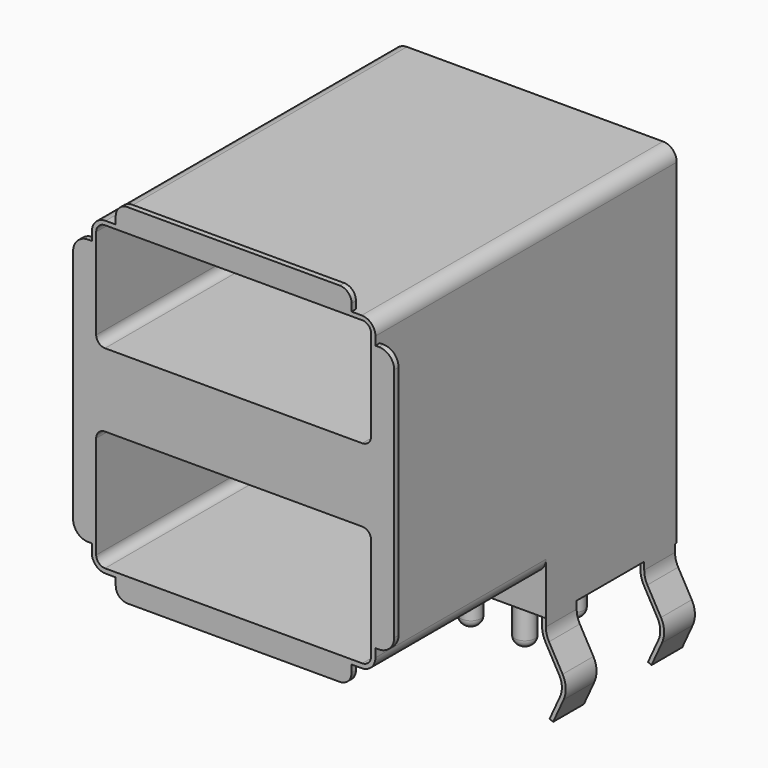
from build123d import *

# Parameters (mm, degrees)
F0_W      = 13.1
F0_H      = 17.4
F1_DEPTH  = 14.35
F2_W      = 13.1
F2_H      = 7.543982
F3_DEPTH  = 1.77
F7_DEPTH  = 0.889
F9_DEPTH  = 0.889
F10_R     = 0.46
F11_DEPTH = 3.1
F12_R     = 0.381
F14_DEPTH = 0.254
F16_DEPTH = 0.254
F17_R     = 0.635
F19_DEPTH = 12.573


with BuildPart() as f1:
    # F0 (on Top) → F1 (new body)
    with BuildSketch(Plane.XY):
        Rectangle(F0_W, F0_H)
    extrude(amount=F1_DEPTH)

    # F2 (on face) → F3 (join)
    with BuildSketch(Plane(origin=(0, 0, 0), x_dir=(1, 0, 0), z_dir=(0, 0, -1))):
        with Locations((0, -4.928009)):
            Rectangle(F2_W, F2_H)
    extrude(amount=F3_DEPTH)

    # F6 (on offset) → F7 (join, symmetric)
    with BuildSketch(Plane.XZ.offset(-2.032)):
        with BuildLine():
            Line((6.55, -2.116357), (6.55, -1.77))
            Line((6.55, -1.77), (6.3722, -1.77))
            Line((6.3722, -1.77), (6.3722, -2.116357))
            ThreePointArc((6.3722, -2.116357), (6.414983, -2.448515), (6.540539, -2.75899))
            Line((6.540539, -2.75899), (7.168328, -3.875061))
            ThreePointArc((7.168328, -3.875061), (7.290154, -4.303191), (7.204733, -4.740044))
            Line((7.204733, -4.740044), (6.722593, -5.796161))
            Line((6.722593, -5.796161), (6.884336, -5.87))
            Line((6.884336, -5.87), (7.366476, -4.813883))
            ThreePointArc((7.366476, -4.813883), (7.467797, -4.295715), (7.323294, -3.787892))
            Line((7.323294, -3.787892), (6.695505, -2.671822))
            ThreePointArc((6.695505, -2.671822), (6.58698, -2.40346), (6.55, -2.116357))
        make_face()
        with BuildLine():
            Line((-6.3722, -2.116357), (-6.3722, -1.77))
            Line((-6.3722, -1.77), (-6.55, -1.77))
            Line((-6.55, -1.77), (-6.55, -2.116357))
            ThreePointArc((-6.55, -2.116357), (-6.58698, -2.40346), (-6.695505, -2.671822))
            Line((-6.695505, -2.671822), (-7.323294, -3.787892))
            ThreePointArc((-7.323294, -3.787892), (-7.467797, -4.295715), (-7.366476, -4.813883))
            Line((-7.366476, -4.813883), (-6.884336, -5.87))
            Line((-6.884336, -5.87), (-6.722593, -5.796161))
            Line((-6.722593, -5.796161), (-7.204733, -4.740044))
            ThreePointArc((-7.204733, -4.740044), (-7.290154, -4.303191), (-7.168328, -3.875061))
            Line((-7.168328, -3.875061), (-6.540539, -2.75899))
            ThreePointArc((-6.540539, -2.75899), (-6.414983, -2.448515), (-6.3722, -2.116357))
        make_face()
    extrude(amount=F7_DEPTH, both=True)

    # F8 (on offset) → F9 (join, symmetric)
    with BuildSketch(Plane.XZ.offset(-7.712)):
        with BuildLine():
            ThreePointArc((-7.323294, -3.787892), (-7.467797, -4.295715), (-7.366476, -4.813883))
            Line((-7.366476, -4.813883), (-6.884336, -5.87))
            Line((-6.884336, -5.87), (-6.722593, -5.796161))
            Line((-6.722593, -5.796161), (-7.204733, -4.740044))
            ThreePointArc((-7.204733, -4.740044), (-7.290154, -4.303191), (-7.168328, -3.875061))
            Line((-7.168328, -3.875061), (-6.540539, -2.75899))
            ThreePointArc((-6.540539, -2.75899), (-6.414983, -2.448515), (-6.3722, -2.116357))
            Line((-6.3722, -2.116357), (-6.3722, -1.77))
            Line((-6.3722, -1.77), (-6.55, -1.77))
            Line((-6.55, -1.77), (-6.55, -2.116357))
            ThreePointArc((-6.55, -2.116357), (-6.58698, -2.40346), (-6.695505, -2.671822))
            Line((-6.695505, -2.671822), (-7.323294, -3.787892))
        make_face()
        with BuildLine():
            Line((6.55, -1.77), (6.3722, -1.77))
            Line((6.3722, -1.77), (6.3722, -2.116357))
            ThreePointArc((6.3722, -2.116357), (6.414983, -2.448515), (6.540539, -2.75899))
            Line((6.540539, -2.75899), (7.168328, -3.875061))
            ThreePointArc((7.168328, -3.875061), (7.290154, -4.303191), (7.204733, -4.740044))
            Line((7.204733, -4.740044), (6.722593, -5.796161))
            Line((6.722593, -5.796161), (6.884336, -5.87))
            Line((6.884336, -5.87), (7.366476, -4.813883))
            ThreePointArc((7.366476, -4.813883), (7.467797, -4.295715), (7.323294, -3.787892))
            Line((7.323294, -3.787892), (6.695505, -2.671822))
            ThreePointArc((6.695505, -2.671822), (6.58698, -2.40346), (6.55, -2.116357))
            Line((6.55, -2.116357), (6.55, -1.77))
        make_face()
    extrude(amount=F9_DEPTH, both=True)

    # F10 (on face) → F11 (join)
    with BuildSketch(Plane(origin=(0, 0, -1.77), x_dir=(1, 0, 0), z_dir=(0, 0, -1))):
        with Locations((3.5, -6.58641)):
            Circle(F10_R)
        with Locations((1, -6.58641)):
            Circle(F10_R)
        with Locations((-1, -6.58641)):
            Circle(F10_R)
        with Locations((-3.5, -6.58641)):
            Circle(F10_R)
        with Locations((3.5, -3.741657)):
            Circle(F10_R)
        with Locations((1, -3.741657)):
            Circle(F10_R)
        with Locations((-1, -3.741657)):
            Circle(F10_R)
        with Locations((-3.5, -3.741657)):
            Circle(F10_R)
    extrude(amount=F11_DEPTH)

    # F12
    f12_edges = [f1.edges().sort_by_distance(p)[0] for p in [
        (3.04, 6.58641, -4.87),
        (0.54, 6.58641, -4.87),
        (-1.46, 6.58641, -4.87),
        (-3.96, 6.58641, -4.87),
        (3.04, 3.741657, -4.87),
        (0.54, 3.741657, -4.87),
        (-1.46, 3.741657, -4.87),
        (-3.96, 3.741657, -4.87),
    ]]
    fillet(f12_edges, radius=F12_R)

    # F13 (on face) → F14 (join)
    with BuildSketch(Plane.XZ.offset(8.7)):
        with BuildLine():
            Line((4.902825, 15.235), (-4.902825, 15.235))
            ThreePointArc((-4.902825, 15.235), (-5.287973, 15.075466), (-5.447506, 14.690318))
            Line((-5.447506, 14.690318), (-5.447506, -0.340318))
            ThreePointArc((-5.447506, -0.340318), (-5.287973, -0.725466), (-4.902825, -0.885))
            Line((-4.902825, -0.885), (4.902825, -0.885))
            ThreePointArc((4.902825, -0.885), (5.287973, -0.725466), (5.447506, -0.340318))
            Line((5.447506, -0.340318), (5.447506, 14.690318))
            ThreePointArc((5.447506, 14.690318), (5.287973, 15.075466), (4.902825, 15.235))
        make_face()
    extrude(amount=-F14_DEPTH)

    # F15 (on face) → F16 (join)
    with BuildSketch(Plane.XZ.offset(8.7)):
        with BuildLine():
            Line((6.715191, 13.325), (-6.715191, 13.325))
            ThreePointArc((-6.715191, 13.325), (-7.210799, 13.119713), (-7.416086, 12.624105))
            Line((-7.416086, 12.624105), (-7.416086, 1.725895))
            ThreePointArc((-7.416086, 1.725895), (-7.210799, 1.230287), (-6.715191, 1.025))
            Line((-6.715191, 1.025), (6.715191, 1.025))
            ThreePointArc((6.715191, 1.025), (7.210799, 1.230287), (7.416086, 1.725895))
            Line((7.416086, 1.725895), (7.416086, 12.624105))
            ThreePointArc((7.416086, 12.624105), (7.210799, 13.119713), (6.715191, 13.325))
        make_face()
    extrude(amount=-F16_DEPTH)

    # F17
    f17_edges = [f1.edges().sort_by_distance(p)[0] for p in [
        (-6.55, 0, 14.35),
        (6.55, 0, 14.35),
        (-6.55, -3.771991, 0),
        (6.55, -3.771991, 0),
    ]]
    fillet(f17_edges, radius=F17_R)

    # F18 (on face) → F19 (cut)
    with BuildSketch(Plane.XZ.offset(8.7)):
        with BuildLine():
            Line((5.943103, 14.160978), (-5.943103, 14.160978))
            ThreePointArc((-5.943103, 14.160978), (-6.230823, 14.041801), (-6.35, 13.754081))
            Line((-6.35, 13.754081), (-6.35, 9.564075))
            ThreePointArc((-6.35, 9.564075), (-6.230823, 9.276355), (-5.943103, 9.157178))
            Line((-5.943103, 9.157178), (5.943103, 9.157178))
            ThreePointArc((5.943103, 9.157178), (6.230823, 9.276355), (6.35, 9.564075))
            Line((6.35, 9.564075), (6.35, 13.754081))
            ThreePointArc((6.35, 13.754081), (6.230823, 14.041801), (5.943103, 14.160978))
        make_face()
        with BuildLine():
            Line((5.943103, 5.769386), (-5.943103, 5.769386))
            ThreePointArc((-5.943103, 5.769386), (-6.230823, 5.650209), (-6.35, 5.362489))
            Line((-6.35, 5.362489), (-6.35, 0.614633))
            ThreePointArc((-6.35, 0.614633), (-6.230823, 0.326913), (-5.943103, 0.207736))
            Line((-5.943103, 0.207736), (5.943103, 0.207736))
            ThreePointArc((5.943103, 0.207736), (6.230823, 0.326913), (6.35, 0.614633))
            Line((6.35, 0.614633), (6.35, 5.362489))
            ThreePointArc((6.35, 5.362489), (6.230823, 5.650209), (5.943103, 5.769386))
        make_face()
    extrude(amount=-F19_DEPTH, mode=Mode.SUBTRACT)


solid = f1.part
